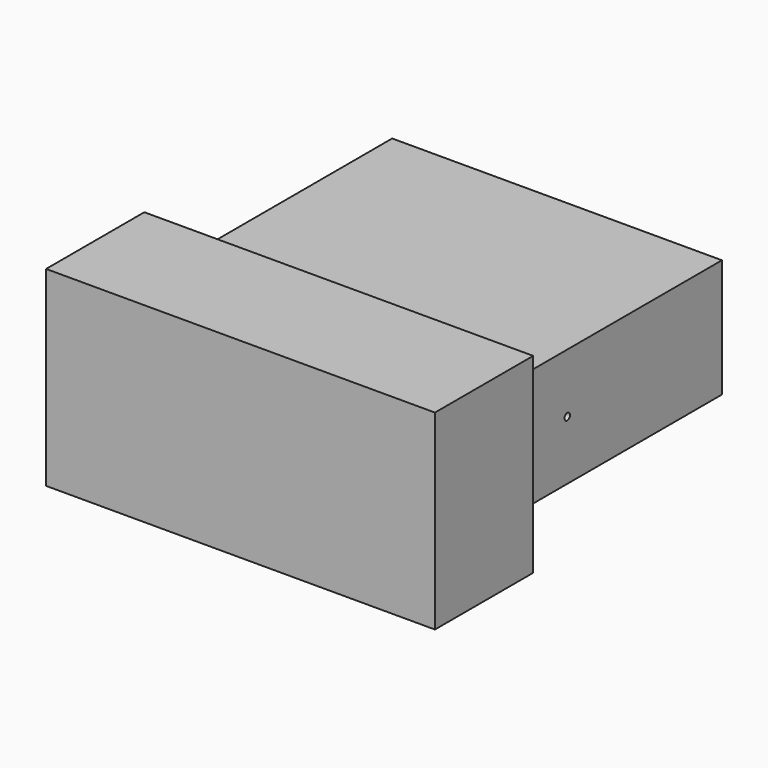
from build123d import *

# Parameters (mm, degrees)
F0_W      = 145
F0_H      = 52
F1_DEPTH  = 120
F0_W_2    = 171
F0_H_2    = 84
F1_FACE_W = 145
F1_FACE_H = 52
F2_DEPTH  = 54
F5_D      = 3


with BuildPart() as f1:
    # F0 (on Front) → F1 (new body)
    with BuildSketch(Plane.XZ):
        with Locations((17.016632, 19.899432)):
            Rectangle(F0_W, F0_H)
    extrude(amount=-F1_DEPTH)

    # F0 (on Front) + F1_face (on face) → F2 (join)
    with BuildSketch(Plane.XZ):
        with Locations((17.016632, 19.899432)):
            Rectangle(F0_W_2, F0_H_2)
        with Locations((17.016632, 19.899432)):
            Rectangle(F0_W, F0_H, mode=Mode.SUBTRACT)
    with BuildSketch(Plane(origin=(17.016632, 0, 19.899432), x_dir=(1, 0, 0), z_dir=(0, -1, 0))):
        Rectangle(F1_FACE_W, F1_FACE_H)
    extrude(amount=F2_DEPTH)

    # F5 (through all)
    with Locations(Plane.YZ.offset(90)):
        with Locations((35, 19.899432)):
            Hole(F5_D / 2)


solid = f1.part
